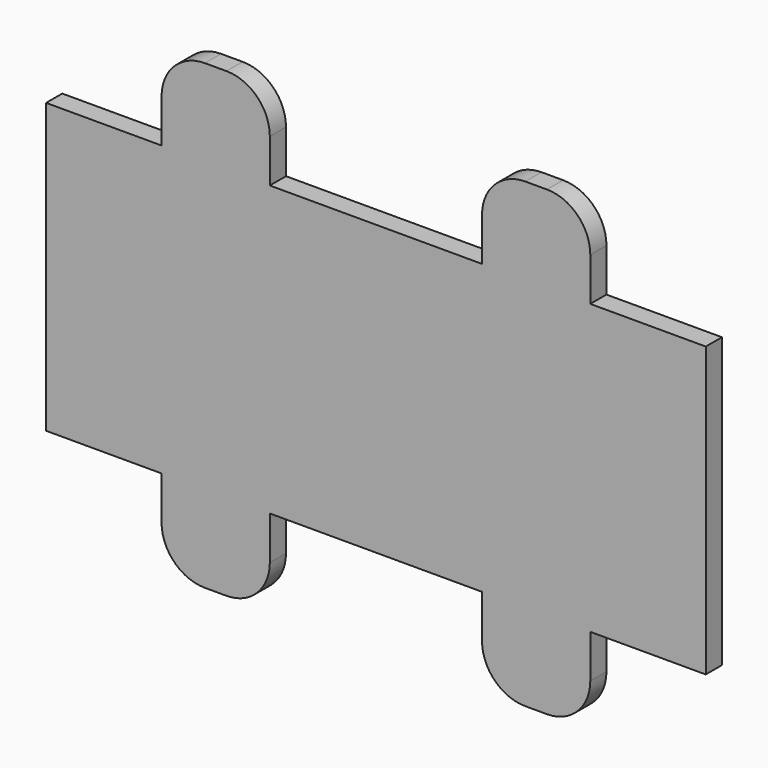
from build123d import *

# Parameters (mm, degrees)
F1_DEPTH = 0.7
F2_R     = 1.5


with BuildPart() as f1:
    # F0 (on Front) → F1 (new body)
    with BuildSketch(Plane.XZ):
        Polygon((3.75, -3), (3.75, 0), (11.1, 0), (11.1, -3), (14.85, -3), (14.85, 0), (18.85, 0), (18.85, 10), (14.85, 10), (14.85, 13), (11.1, 13), (11.1, 10), (3.75, 10), (3.75, 13), (0, 13), (0, 10), (-4, 10), (-4, 0), (0, 0), (0, -3), align=None)
    extrude(amount=F1_DEPTH)

    # F2
    f2_edges = [f1.edges().sort_by_distance(p)[0] for p in [
        (0, -0.35, 13),
        (3.75, -0.35, 13),
        (11.1, -0.35, 13),
        (14.85, -0.35, 13),
        (0, -0.35, -3),
        (3.75, -0.35, -3),
        (11.1, -0.35, -3),
        (14.85, -0.35, -3),
    ]]
    fillet(f2_edges, radius=F2_R)


solid = f1.part
